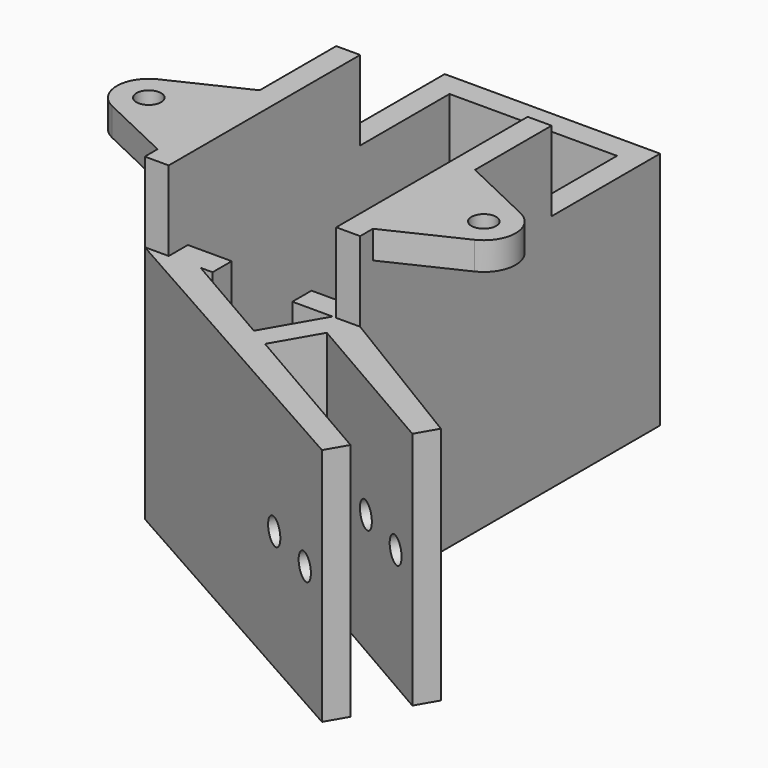
from build123d import *

# Parameters (mm, degrees)
SKETCH_W        = 21
SKETCH_H        = 41
PAD_DEPTH       = 30
SKETCH001_W     = 10
SKETCH001_H     = 27
POCKET_DEPTH    = 3.1
SKETCH002_R     = 1.6
POCKET001_DEPTH = 12.5
SKETCH003_W     = 3
SKETCH003_H     = 30
PAD001_DEPTH    = 10
SKETCH004_R     = 1.55
PAD002_DEPTH    = 3.5


with BuildPart() as part:
    # Sketch → Pad (new body)
    with BuildSketch(Plane.XY):
        Polygon((13.5, 0), (13.5, 47), (-13.5, 47), (-13.5, 0), (26.918584287, -22.7583302492), (28.418584287, -20.1602540378), (8.5, -8.6602540378), (11.75, -3.0310889132), (31.668584287, -14.5310889132), (33.168584287, -11.9330127019), align=None)
        with Locations((0, 23.5)):
            Rectangle(SKETCH_W, SKETCH_H, mode=Mode.SUBTRACT)
        Polygon((-6.5, 0), (10.0358983849, 0), (5.9019237886, -7.1602540378), align=None, mode=Mode.SUBTRACT)
    extrude(amount=PAD_DEPTH)

    # Sketch001 (on Face11 of Pad) → Pocket (cut)
    with BuildSketch(Plane(origin=(0, 3, 0), x_dir=(-1, 0, 0), z_dir=(0, 1, 0))):
        with Locations((0, 16.5)):
            Rectangle(SKETCH001_W, SKETCH001_H)
    extrude(amount=-POCKET_DEPTH, mode=Mode.SUBTRACT)

    # Sketch002 (on Face10 of Pocket) → Pocket001 (cut, symmetric)
    with BuildSketch(Plane(origin=(-1.625, -2.8145825623, 0), x_dir=(-0.8660254038, 0.5, 0), z_dir=(0.5, 0.8660254038, 0))):
        with Locations((-30.1913429511, 15)):
            Circle(SKETCH002_R)
        with Locations((-22.1913429511, 15)):
            Circle(SKETCH002_R)
    extrude(amount=POCKET001_DEPTH, both=True, mode=Mode.SUBTRACT)

    # Sketch003 (on Face5 of Pocket001) → Pad001 (join)
    with BuildSketch(Plane.XY.offset(30)):
        with Locations((-12, 15)):
            Rectangle(SKETCH003_W, SKETCH003_H)
        with Locations((12, 15)):
            Rectangle(SKETCH003_W, SKETCH003_H)
    extrude(amount=PAD001_DEPTH)

    # Sketch004 (on Face26 of Pad001) → Pad002 (join)
    with BuildSketch(Plane.XY.offset(40)):
        with BuildLine():
            Line((-13.5, 18), (-13.5, 2))
            Line((-13.5, 2), (-22.7191621265, 6.3882855064))
            ThreePointArc((-22.7191621265, 13.6117144936), (-25, 10), (-22.7191621265, 6.3882855064))
            Line((-13.5, 18), (-22.7191621265, 13.6117144936))
        make_face()
        with Locations((-21, 10)):
            Circle(SKETCH004_R, mode=Mode.SUBTRACT)
        with BuildLine():
            Line((22.7191621265, 6.3882855064), (13.5, 2))
            Line((13.5, 2), (13.5, 18))
            Line((13.5, 18), (22.7191621265, 13.6117144936))
            ThreePointArc((22.7191621265, 6.3882855064), (25, 10), (22.7191621265, 13.6117144936))
        make_face()
        with Locations((21, 10)):
            Circle(SKETCH004_R, mode=Mode.SUBTRACT)
    extrude(amount=-PAD002_DEPTH)


solid = part.part
